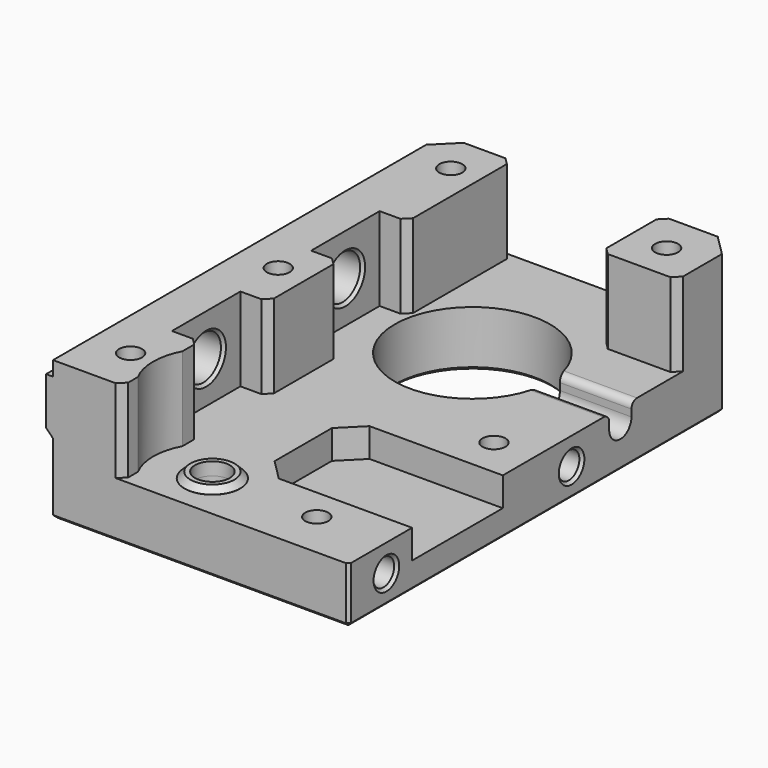
from build123d import *

# Parameters (mm, degrees)
SKETCH_W        = 42.5
SKETCH_H        = 70
SKETCH_R        = 11.15
SKETCH_R_2      = 1.65
SKETCH_R_3      = 2.5
PAD003_DEPTH    = 8
POCKET002_DEPTH = 4.15
SKETCH007_W     = 10
SKETCH007_H     = 70
SKETCH007_R     = 1.65
PAD004_DEPTH    = 12
SKETCH008_R     = 8.5
POCKET003_DEPTH = 12
CHAMFER004_SIZE = 3
SKETCH011_R     = 1.65
PAD005_DEPTH    = 12
CHAMFER005_SIZE = 1
SKETCH012_R     = 1.65
POCKET005_DEPTH = 8.001
SKETCH013_R     = 1.65
POCKET006_DEPTH = 20.001
SKETCH014_R     = 4
SKETCH014_R_2   = 2.5
PAD006_DEPTH    = 0.85
CHAMFER006_SIZE = 0.84
SKETCH015_R     = 1.9
POCKET007_DEPTH = 6
SKETCH016_R     = 3.15
POCKET008_DEPTH = 10.001
SKETCH017_W     = 4
SKETCH017_H     = 12.3
POCKET009_DEPTH = 12
CHAMFER007_SIZE = 1
SKETCH018_W     = 17
SKETCH018_H     = 6.956198
SKETCH018_W_2   = 15
SKETCH018_H_2   = 7.10749
SKETCH018_H_3   = 7.8
PAD007_DEPTH    = 1
CHAMFER008_SIZE = 0.99
SKETCH019_R     = 3.25
POCKET010_DEPTH = 7
SKETCH020_R     = 2
POCKET011_DEPTH = 6
CHAMFER009_SIZE = 0.4
POCKET027_DEPTH = 12
FILLET_R        = 1
SKETCH041_R     = 4.5
SKETCH041_R_2   = 2.5
PAD012_DEPTH    = 7
CHAMFER021_SIZE = 0.4


with BuildPart() as part:
    # Sketch → Pad003 (new body)
    with BuildSketch(Plane.XY):
        with Locations((21.25, 35)):
            Rectangle(SKETCH_W, SKETCH_H)
        with Locations((21.25, 48.75)):
            Circle(SKETCH_R, mode=Mode.SUBTRACT)
        with Locations((5.75, 64.25)):
            Circle(SKETCH_R_2, mode=Mode.SUBTRACT)
        with Locations((36.75, 64.25)):
            Circle(SKETCH_R_2, mode=Mode.SUBTRACT)
        with Locations((5.75, 33.25)):
            Circle(SKETCH_R_2, mode=Mode.SUBTRACT)
        with Locations((36.75, 33.25)):
            Circle(SKETCH_R_2, mode=Mode.SUBTRACT)
        with Locations((17.5, 6.74)):
            Circle(SKETCH_R_3, mode=Mode.SUBTRACT)
    extrude(amount=PAD003_DEPTH)

    # Sketch006 (on Face12 of Pad003) → Pocket002 (cut)
    with BuildSketch(Plane.XY.offset(8)):
        Polygon((42.5, 27.65), (23.35, 27.65), (20.35, 24.65), (20.35, 14.35), (23.35, 11.35), (42.5, 11.35), align=None)
    extrude(amount=-POCKET002_DEPTH, mode=Mode.SUBTRACT)

    # Sketch007 (on Face4 of Pocket002) → Pad004 (join)
    with BuildSketch(Plane.XY.offset(8)):
        with Locations((5, 35)):
            Rectangle(SKETCH007_W, SKETCH007_H)
        with Locations((5.75, 64.25)):
            Circle(SKETCH007_R, mode=Mode.SUBTRACT)
        with Locations((5.75, 33.25)):
            Circle(SKETCH007_R, mode=Mode.SUBTRACT)
    extrude(amount=PAD004_DEPTH)

    # Sketch008 (on Face4 of Pad004) → Pocket003 (cut)
    with BuildSketch(Plane.XY.offset(8)):
        with Locations((17.5, 6.74)):
            Circle(SKETCH008_R)
    extrude(amount=POCKET003_DEPTH, mode=Mode.SUBTRACT)

    # Chamfer004
    chamfer004_edges = [part.edges().sort_by_distance(p)[0] for p in [
        (42.5, 70, 4),
        (0, 70, 4),
    ]]
    chamfer(chamfer004_edges, length=CHAMFER004_SIZE)

    # Sketch011 (on Face5 of Chamfer004) → Pad005 (join)
    with BuildSketch(Plane.XY.offset(8)):
        Polygon((42.5, 67), (39.5, 70), (31.5, 70), (31.5, 59), (42.5, 59), align=None)
        with Locations((36.75, 64.25)):
            Circle(SKETCH011_R, mode=Mode.SUBTRACT)
    extrude(amount=PAD005_DEPTH)

    # Chamfer005
    chamfer005_edges = [part.edges().sort_by_distance(p)[0] for p in [
        (42.5, 59, 14),
        (31.5, 59, 14),
        (31.5, 70, 14),
        (10, 70, 14),
        (10, 0, 14),
    ]]
    chamfer(chamfer005_edges, length=CHAMFER005_SIZE)

    # Sketch012 (on Face26 of Chamfer005) → Pocket005 (cut, through all)
    with BuildSketch(Plane.XY.offset(8)):
        with Locations((32.5, 6.74)):
            Circle(SKETCH012_R)
    extrude(amount=-POCKET005_DEPTH, mode=Mode.SUBTRACT)

    # Sketch013 (on Face38 of Pocket005) → Pocket006 (cut, through all)
    with BuildSketch(Plane.XY.offset(20)):
        with Locations((5.75, 6.74)):
            Circle(SKETCH013_R)
    extrude(amount=-POCKET006_DEPTH, mode=Mode.SUBTRACT)

    # Sketch014 (on Face18 of Pocket006) → Pad006 (join)
    with BuildSketch(Plane.XY.offset(8)):
        with Locations((17.5, 6.74)):
            Circle(SKETCH014_R)
        with Locations((17.5, 6.74)):
            Circle(SKETCH014_R_2, mode=Mode.SUBTRACT)
    extrude(amount=PAD006_DEPTH)

    # Chamfer006
    chamfer006_edges = [part.edges().sort_by_distance(p)[0] for p in [
        (13.5, 6.74, 8.85),
    ]]
    chamfer(chamfer006_edges, length=CHAMFER006_SIZE)

    # Sketch015 (on Face17 of Chamfer006) → Pocket007 (cut)
    with BuildSketch(Plane.YZ.offset(42.5)):
        with Locations((6.74, 4.11193)):
            Circle(SKETCH015_R)
        with Locations((40, 4.11193)):
            Circle(SKETCH015_R)
    extrude(amount=-POCKET007_DEPTH, mode=Mode.SUBTRACT)

    # Sketch016 (on Face14 of Pocket007) → Pocket008 (cut, through all)
    with BuildSketch(Plane.YZ.offset(10)):
        with Locations((20, 14)):
            Circle(SKETCH016_R)
        with Locations((45, 14)):
            Circle(SKETCH016_R)
    extrude(amount=-POCKET008_DEPTH, mode=Mode.SUBTRACT)

    # Sketch017 (on Face36 of Pocket008) → Pocket009 (cut)
    with BuildSketch(Plane.XY.offset(20)):
        with Locations((8, 45)):
            Rectangle(SKETCH017_W, SKETCH017_H)
        with Locations((8, 20)):
            Rectangle(SKETCH017_W, SKETCH017_H)
    extrude(amount=-POCKET009_DEPTH, mode=Mode.SUBTRACT)

    # Chamfer007
    chamfer007_edges = [part.edges().sort_by_distance(p)[0] for p in [
        (10, 13.85, 14),
        (10, 26.15, 14),
        (10, 38.85, 14),
        (10, 51.15, 14),
    ]]
    chamfer(chamfer007_edges, length=CHAMFER007_SIZE)

    # Sketch018 (on Face53 of Chamfer007) → Pad007 (join)
    with BuildSketch(Plane(origin=(0, 0, 0), x_dir=(0, -1, 0), z_dir=(-1, 0, 0))):
        with Locations((-58.5, 14.421901)):
            Rectangle(SKETCH018_W, SKETCH018_H)
        with Locations((-32.5, 14.346255)):
            Rectangle(SKETCH018_W_2, SKETCH018_H_2)
        with Locations((-7.5, 14)):
            Rectangle(SKETCH018_W_2, SKETCH018_H_3)
    extrude(amount=PAD007_DEPTH)

    # Chamfer008
    chamfer008_edges = [part.edges().sort_by_distance(p)[0] for p in [
        (-1, 58.5, 10.943802),
        (-1, 32.5, 10.79251),
        (-1, 7.5, 10.1),
    ]]
    chamfer(chamfer008_edges, length=CHAMFER008_SIZE)

    # Sketch019 (on Face47 of Chamfer008) → Pocket010 (cut)
    with BuildSketch(Plane(origin=(0, 0, 0), x_dir=(1, 0, 0), z_dir=(0, 0, -1))):
        with Locations((17.5, -6.74)):
            Circle(SKETCH019_R)
    extrude(amount=-POCKET010_DEPTH, mode=Mode.SUBTRACT)

    # Sketch020 (on Face47 of Pocket010) → Pocket011 (cut)
    with BuildSketch(Plane(origin=(0, 0, 0), x_dir=(1, 0, 0), z_dir=(0, 0, -1))):
        with Locations((5.75, -6.74)):
            Circle(SKETCH020_R)
        with Locations((32.5, -6.74)):
            Circle(SKETCH020_R)
    extrude(amount=-POCKET011_DEPTH, mode=Mode.SUBTRACT)

    # Chamfer009
    chamfer009_edges = [part.edges().sort_by_distance(p)[0] for p in [
        (42.5, 33.5, 0),
        (41, 68.5, 0),
        (21.25, 0, 0),
        (21.25, 70, 0),
        (0, 33.5, 0),
        (1.5, 68.5, 0),
        (3.75, 6.74, 0),
        (14.25, 6.74, 0),
        (4.1, 33.25, 0),
        (30.5, 6.74, 0),
        (35.1, 33.25, 0),
        (4.1, 64.25, 0),
        (10.1, 48.75, 0),
        (35.1, 64.25, 0),
        (0, 41.85, 14),
        (0, 16.85, 14),
        (6, 16.85, 14),
        (6, 41.85, 14),
        (42.5, 4.84, 4.11193),
        (42.5, 38.1, 4.11193),
        (42.5, 0, 4),
    ]]
    chamfer(chamfer009_edges, length=CHAMFER009_SIZE)

    # Sketch040 (on Face78 of Chamfer009) → Pocket027 (cut)
    with BuildSketch(Plane.YZ.offset(42.5)):
        with BuildLine():
            ThreePointArc((46.75, 6), (48.75, 4), (50.75, 6))
            Line((50.75, 8), (50.75, 6))
            Line((48.75, 8), (50.75, 8))
            Line((46.75, 8), (48.75, 8))
            Line((46.75, 6), (46.75, 8))
        make_face()
    extrude(amount=-POCKET027_DEPTH, mode=Mode.SUBTRACT)

    # Fillet
    fillet_edges = [part.edges().sort_by_distance(p)[0] for p in [
        (37.359581, 46.75, 8),
        (37.359581, 50.75, 8),
    ]]
    fillet(fillet_edges, radius=FILLET_R)

    # Sketch041 (on Face62 of Fillet) → Pad012 (join)
    with BuildSketch(Plane(origin=(0, 0, 0), x_dir=(1, 0, 0), z_dir=(0, 0, -1))):
        with Locations((17.5, -6.74)):
            Circle(SKETCH041_R)
        with Locations((17.5, -6.74)):
            Circle(SKETCH041_R_2, mode=Mode.SUBTRACT)
    extrude(amount=-PAD012_DEPTH)

    # Chamfer021
    chamfer021_edges = [part.edges().sort_by_distance(p)[0] for p in [
        (15, 6.74, 0),
    ]]
    chamfer(chamfer021_edges, length=CHAMFER021_SIZE)


with BuildPart() as part_1:
    # Body placement: moved
    add(part.part.moved(Location((0, 0, 1))))


solid = part_1.part
